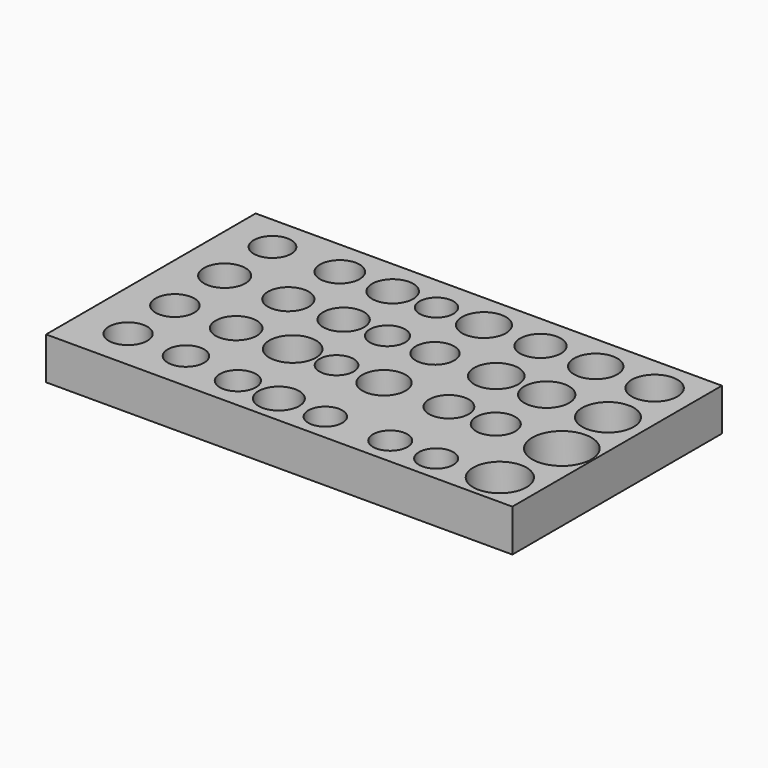
from build123d import *

# Parameters (mm, degrees)
F0_W     = 110.506337
F0_H     = 62.088609
F1_DEPTH = 10
F2_R     = 4.42144
F2_R_2   = 4.916585
F2_R_3   = 4.592425
F2_R_4   = 4.565853
F2_R_5   = 4.309959
F2_R_6   = 4.875164
F2_R_7   = 4.841772
F2_R_8   = 4.69721
F2_R_9   = 4.875165
F2_R_10  = 4.020264
F2_R_11  = 5.197297
F2_R_12  = 4.841773
F2_R_13  = 5.134488
F2_R_14  = 5.411392
F2_R_15  = 4.850142
F2_R_16  = 5.530012
F2_R_17  = 4.281635
F2_R_18  = 4.188259
F2_R_19  = 4.050416
F2_R_20  = 4.818681
F2_R_21  = 4.565854
F2_R_22  = 5.126583
F2_R_23  = 4.027824
F2_R_24  = 5.25164
F2_R_25  = 4.714446
F2_R_26  = 4.077859
F2_R_27  = 5.320693
F2_R_28  = 4.636373
F2_R_29  = 4.077861
F2_R_30  = 6.115132
F2_R_31  = 7.005402
F2_R_32  = 6.323816
F3_DEPTH = 25


with BuildPart() as f1:
    # F0 (on Top) → F1 (new body)
    with BuildSketch(Plane.XY):
        with Locations((5.553799, 4.272151)):
            Rectangle(F0_W, F0_H)
    extrude(amount=F1_DEPTH)

    # F2 (on face) → F3 (cut)
    with BuildSketch(Plane.XY.offset(10)):
        with Locations((-38.876582, 26.772153)):
            Circle(F2_R)
        with Locations((-38.591772, 12.246836)):
            Circle(F2_R_2)
        with Locations((-38.306963, -2.848102)):
            Circle(F2_R_3)
        with Locations((-38.022153, -17.088609)):
            Circle(F2_R_4)
        with Locations((-24.066458, -17.373418)):
            Circle(F2_R_5)
        with Locations((-23.781646, -2.848102)):
            Circle(F2_R_6)
        with Locations((-23.496836, 12.246836)):
            Circle(F2_R_7)
        with Locations((-22.927215, 26.772153)):
            Circle(F2_R_8)
        with Locations((-10.395571, 26.772153)):
            Circle(F2_R_9)
        with Locations((0, 26.772153)):
            Circle(F2_R_10)
        with Locations((11.25, 26.772153)):
            Circle(F2_R_11)
        with Locations((24.636075, 26.772153)):
            Circle(F2_R_12)
        with Locations((37.737343, 26.772153)):
            Circle(F2_R_13)
        with Locations((51.693037, 26.772153)):
            Circle(F2_R_14)
        with Locations((-10.395571, 12.246836)):
            Circle(F2_R_15)
        with Locations((-10.395571, -2.848102)):
            Circle(F2_R_16)
        with Locations((-10.395571, -19.08228)):
            Circle(F2_R_17)
        with Locations((0, 12.246836)):
            Circle(F2_R_18)
        with Locations((0, -2.848102)):
            Circle(F2_R_19)
        with Locations((0, -19.936711)):
            Circle(F2_R_20)
        with Locations((11.25, 12.246836)):
            Circle(F2_R_21)
        with Locations((11.25, -2.848102)):
            Circle(F2_R_22)
        with Locations((11.25, -20.22152)):
            Circle(F2_R_23)
        with Locations((25.775315, 12.246836)):
            Circle(F2_R_24)
        with Locations((26.629746, -2.848102)):
            Circle(F2_R_25)
        with Locations((26.629746, -20.22152)):
            Circle(F2_R_26)
        with Locations((37.737343, 12.246836)):
            Circle(F2_R_27)
        with Locations((37.737343, -2.848102)):
            Circle(F2_R_28)
        with Locations((37.737343, -20.50633)):
            Circle(F2_R_29)
        with Locations((52.262656, 12.246836)):
            Circle(F2_R_30)
        with Locations((53.401899, -2.848102)):
            Circle(F2_R_31)
        with Locations((51.693037, -19.08228)):
            Circle(F2_R_32)
    extrude(amount=-F3_DEPTH, mode=Mode.SUBTRACT)


solid = f1.part
